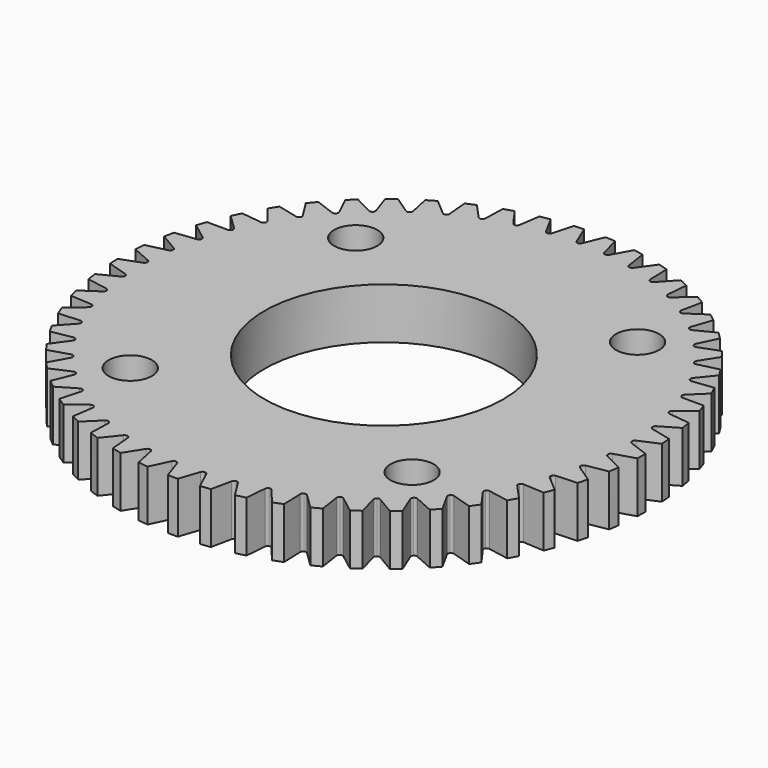
from build123d import *

# Parameters (mm, degrees)
F0_R     = 26.2827020695
F0_R_2   = 2.15265
F0_R_3   = 11.90625
F1_DEPTH = 5.08
F3_DEPTH = 5.08
F4_COUNT = 53
F4_ANGLE = 353.2075471698


with BuildPart() as f1:
    # F0 (on Top) → F1 (new body)
    with BuildSketch(Plane.XY):
        Circle(F0_R)
        with Locations((-14.0316501892, -14.0316501892)):
            Circle(F0_R_2, mode=Mode.SUBTRACT)
        with Locations((14.0316501892, -14.0316501892)):
            Circle(F0_R_2, mode=Mode.SUBTRACT)
        with Locations((-14.0316501892, 14.0316501892)):
            Circle(F0_R_2, mode=Mode.SUBTRACT)
        Circle(F0_R_3, mode=Mode.SUBTRACT)
        with Locations((14.0316501892, 14.0316501892)):
            Circle(F0_R_2, mode=Mode.SUBTRACT)
    extrude(amount=F1_DEPTH)

    # F2 (on face) → F3 (cut, through all)
    with BuildSketch(Plane.XY.offset(5.08)):
        with BuildLine():
            ThreePointArc((-0.2758821969, 24.3204807858), (-0.1663910021, 24.1852557389), (0, 24.1343816839))
            Line((0, 24.1343816839), (0, 26.2827020695))
            ThreePointArc((0, 26.2827020695), (-0.5300445911, 26.2773568078), (-1.059873586, 26.261323197))
            Line((-1.059873586, 26.261323197), (-0.2758821969, 24.3204807858))
        make_face()
        with BuildLine():
            Line((0, 26.2827020695), (0, 24.1343816839))
            ThreePointArc((0, 24.1343816839), (0.1663910021, 24.1852557389), (0.2758821969, 24.3204807858))
            Line((0.2758821969, 24.3204807858), (1.059873586, 26.261323197))
            ThreePointArc((1.059873586, 26.261323197), (0.5300445911, 26.2773568078), (0, 26.2827020695))
        make_face()
    f3 = extrude(amount=-F3_DEPTH, mode=Mode.SUBTRACT)

    # F4: F3 ×53 about axis
    f4_axis = Axis((0, 0, 0), (0, 0, -1))
    for i in range(1, F4_COUNT):
        add(f3.rotate(f4_axis, i * F4_ANGLE / (F4_COUNT - 1)), mode=Mode.SUBTRACT)


solid = f1.part
